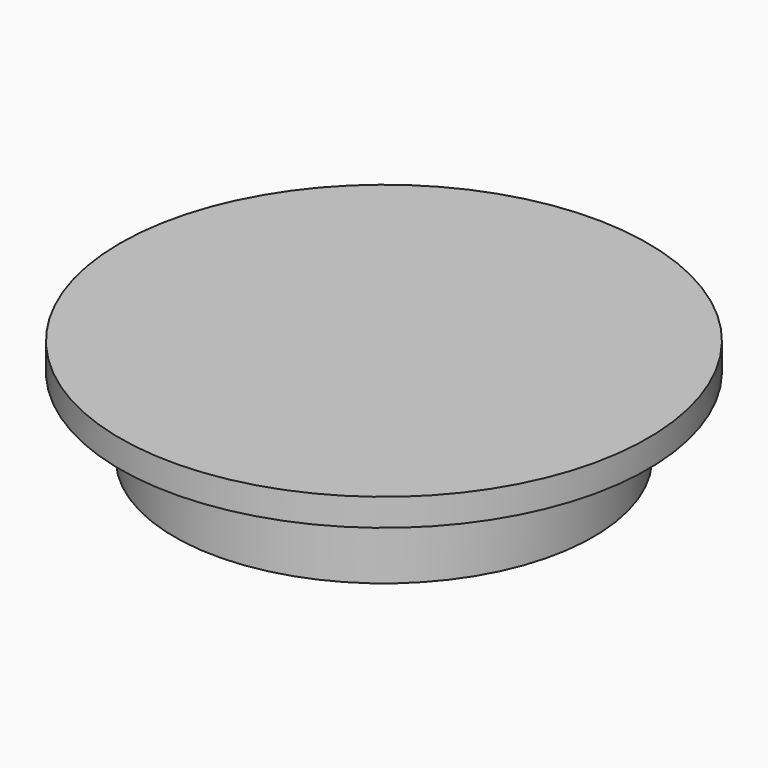
from build123d import *


with BuildPart() as f1:
    # F0 (on Front) → F1 (revolve)
    with BuildSketch(Plane.XZ):
        with BuildLine():
            Line((-15.8, 8.07061), (-15.8, 0))
            Line((-15.8, 0), (-12.8, 0))
            Line((-12.8, 0), (-12.8, 8.07061))
            ThreePointArc((-12.8, 8.07061), (-12.674235, 8.374235), (-12.37061, 8.5))
            Line((-12.37061, 8.5), (0, 8.5))
            Line((0, 8.5), (0, 11.5))
            Line((0, 11.5), (-23, 11.5))
            Line((-23, 11.5), (-29, 11.5))
            Line((-29, 11.5), (-29, 8.5))
            Line((-29, 8.5), (-23, 8.5))
            Line((-23, 8.5), (-23, 0))
            Line((-23, 0), (-20, 0))
            Line((-20, 0), (-18.8, 1.134371))
            Line((-18.8, 1.134371), (-20, 1.134371))
            Line((-20, 1.134371), (-20, 8.07061))
            ThreePointArc((-20, 8.07061), (-19.874235, 8.374235), (-19.57061, 8.5))
            Line((-19.57061, 8.5), (-16.22939, 8.5))
            ThreePointArc((-16.22939, 8.5), (-15.925765, 8.374235), (-15.8, 8.07061))
        make_face()
    revolve(axis=Axis((0, 0, 10), (0, 0, -1)))


solid = f1.part
